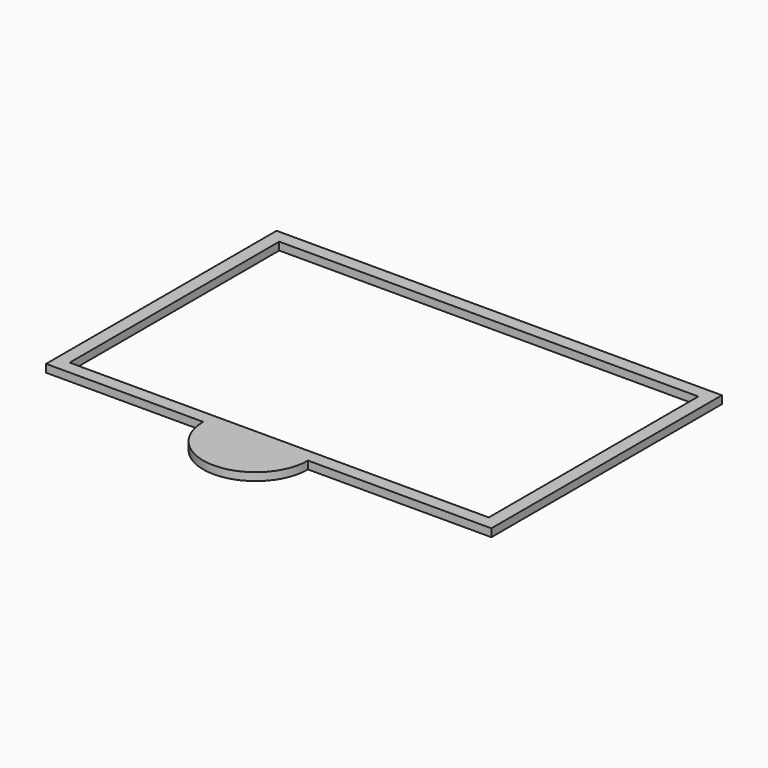
from build123d import *

# Parameters (mm, degrees)
BOX004_W          = 160
BOX004_H          = 100
BOX004_DEPTH      = 5
CYLINDER001_R     = 20
CYLINDER001_DEPTH = 3
BOX003_W          = 170
BOX003_H          = 110
BOX003_DEPTH      = 3


with BuildPart() as box004:
    # Box004 → Box004 (new body)
    with BuildSketch(Plane(origin=(5, 5, 3), x_dir=(1, 0, 0), z_dir=(0, 0, 1))):
        with Locations((80, 50)):
            Rectangle(BOX004_W, BOX004_H)
    extrude(amount=BOX004_DEPTH)


with BuildPart() as cilindro001:
    # Cylinder001 → Cylinder001 (new body)
    with BuildSketch(Plane(origin=(80, 0, 0), x_dir=(1, 0, 0), z_dir=(0, 0, 1))):
        Circle(CYLINDER001_R)
    extrude(amount=CYLINDER001_DEPTH)


with BuildPart() as obj1:
    # Box003 → Box003 (new body)
    with BuildSketch(Plane.XY):
        with Locations((85, 55)):
            Rectangle(BOX003_W, BOX003_H)
    extrude(amount=BOX003_DEPTH)

    # Fusion001: union Cilindro001
    add(cilindro001.part)


with BuildPart() as obj1_1:
    # Fusion001 placement: moved
    add(obj1.part.moved(Location((0, 0, 3))))

    # Cut004: cut Box004
    add(box004.part, mode=Mode.SUBTRACT)


with BuildPart() as obj1_2:
    # Cut004 placement: moved
    add(obj1_1.part.moved(Location((5, -30, 5))))


solid = obj1_2.part
